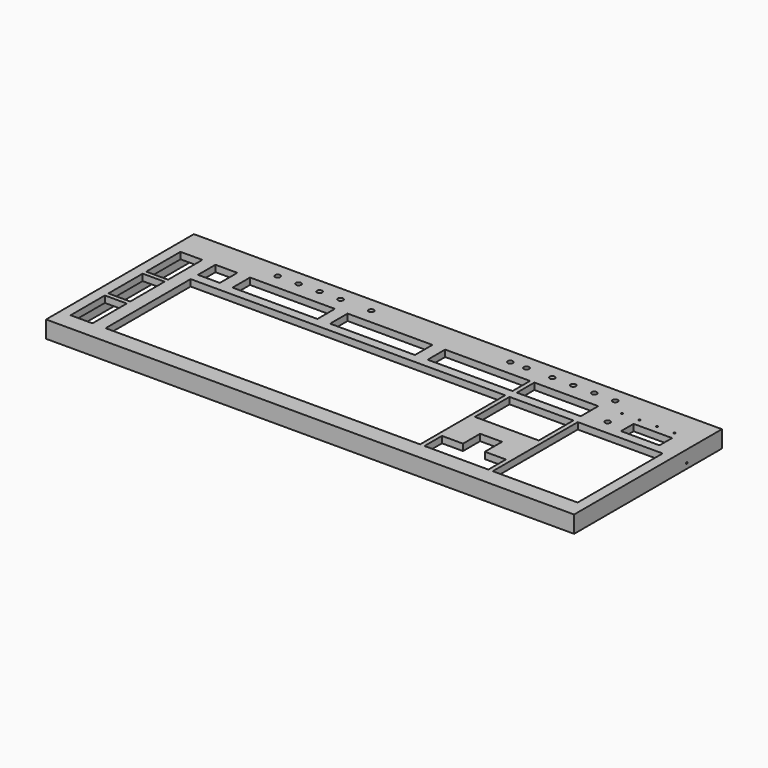
from build123d import *

# Parameters (mm, degrees)
F0_W      = 479.028125
F0_H      = 167.619304
F0_W_2    = 19.84375
F0_H_2    = 38.89375
F0_W_3    = 285.353125
F0_H_3    = 96.440625
F0_W_4    = 76.99375
F0_H_4    = 19.84375
F0_W_5    = 57.94375
F0_H_5    = 39.290625
F1_DEPTH  = 5.953125
F2_R      = 2.38125
F2_R_2    = 0.79375
F3_DEPTH  = 5.954125
F4_W      = 479.028125
F4_H      = 167.619304
F4_W_2    = 466.328125
F4_H_2    = 154.919304
F5_DEPTH  = 9.525
F6_W      = 34.925
F6_H      = 14.2875
F7_DEPTH  = 15.479125
F9_R      = 0.79375
F10_DEPTH = 42.530125


with BuildPart() as f1:
    # F0 (on Top) → F1 (new body)
    with BuildSketch(Plane.XY):
        with Locations((236.339062, 74.284652)):
            Rectangle(F0_W, F0_H)
        with Locations((16.271875, 25.796875)):
            Rectangle(F0_W_2, F0_H_2, mode=Mode.SUBTRACT)
        with Locations((16.271875, 68.659375)):
            Rectangle(F0_W_2, F0_H_2, mode=Mode.SUBTRACT)
        with Locations((180.776563, 54.570312)):
            Rectangle(F0_W_3, F0_H_3, mode=Mode.SUBTRACT)
        Polygon((385.365625, 6.35), (327.421875, 6.35), (327.421875, 26.19375), (346.471875, 26.19375), (346.471875, 45.640625), (366.315625, 45.640625), (366.315625, 26.19375), (385.365625, 26.19375), align=None, mode=Mode.SUBTRACT)
        with Locations((427.83125, 54.570312)):
            Rectangle(F0_W_4, F0_H_3, mode=Mode.SUBTRACT)
        with Locations((16.271875, 111.521875)):
            Rectangle(F0_W_2, F0_H_2, mode=Mode.SUBTRACT)
        with Locations((48.021875, 121.046875)):
            Rectangle(F0_W_2, F0_H_4, mode=Mode.SUBTRACT)
        with Locations((107.95, 121.046875)):
            Rectangle(F0_W_4, F0_H_4, mode=Mode.SUBTRACT)
        with Locations((196.453125, 121.046875)):
            Rectangle(F0_W_4, F0_H_4, mode=Mode.SUBTRACT)
        with Locations((356.39375, 83.145312)):
            Rectangle(F0_W_5, F0_H_5, mode=Mode.SUBTRACT)
        with Locations((284.95625, 121.046875)):
            Rectangle(F0_W_4, F0_H_4, mode=Mode.SUBTRACT)
        with Locations((356.39375, 121.046875)):
            Rectangle(F0_W_5, F0_H_4, mode=Mode.SUBTRACT)
    extrude(amount=F1_DEPTH)

    # F2 (on face) → F3 (cut, through all)
    with BuildSketch(Plane.XY.offset(5.953125)):
        with Locations((83.34375, 144.859375)):
            Circle(F2_R)
        with Locations((102.39375, 144.859375)):
            Circle(F2_R)
        with Locations((121.44375, 144.859375)):
            Circle(F2_R)
        with Locations((140.49375, 144.859375)):
            Circle(F2_R)
        with Locations((168.275, 144.859375)):
            Circle(F2_R)
        with Locations((294.48125, 144.859375)):
            Circle(F2_R)
        with Locations((309.165625, 144.859375)):
            Circle(F2_R)
        with Locations((332.58125, 144.859375)):
            Circle(F2_R)
        with Locations((351.63125, 144.859375)):
            Circle(F2_R)
        with Locations((370.68125, 144.859375)):
            Circle(F2_R)
        with Locations((389.73125, 144.859375)):
            Circle(F2_R)
        with Locations((405.60625, 116.284375)):
            Circle(F2_R)
        with Locations((405.60625, 132.55625)):
            Circle(F2_R_2)
        with Locations((421.48125, 132.55625)):
            Circle(F2_R_2)
        with Locations((437.35625, 132.55625)):
            Circle(F2_R_2)
        with Locations((453.23125, 132.55625)):
            Circle(F2_R_2)
    extrude(amount=-F3_DEPTH, mode=Mode.SUBTRACT)

    # F4 (on face) → F5 (join)
    with BuildSketch(Plane(origin=(0, 0, 0), x_dir=(1, 0, 0), z_dir=(0, 0, -1))):
        with Locations((236.339062, -74.284652)):
            Rectangle(F4_W, F4_H)
        with Locations((236.339062, -74.284652)):
            Rectangle(F4_W_2, F4_H_2, mode=Mode.SUBTRACT)
    extrude(amount=F5_DEPTH)

    # F6 (on face) → F7 (cut, through all)
    with BuildSketch(Plane.XY.offset(5.953125)):
        with Locations((439.340625, 118.26875)):
            Rectangle(F6_W, F6_H)
    extrude(amount=-F7_DEPTH, mode=Mode.SUBTRACT)

    # F9 (on offset) → F10 (cut, through all)
    with BuildSketch(Plane.YZ.offset(433.324)):
        with Locations((118.26875, -4.7625)):
            Circle(F9_R)
    extrude(amount=F10_DEPTH, mode=Mode.SUBTRACT)


solid = f1.part
